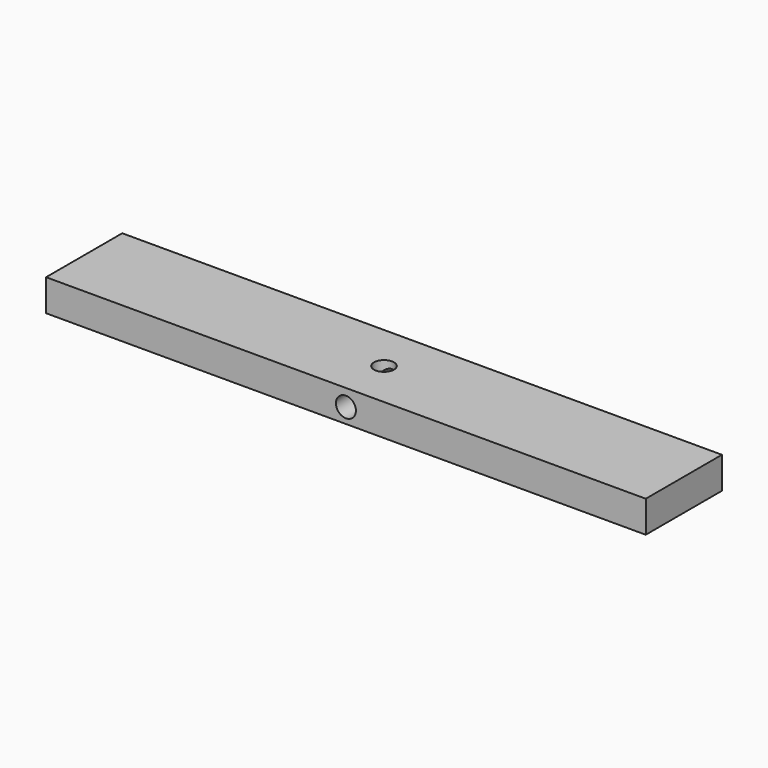
from build123d import *

# Parameters (mm, degrees)
F0_W     = 55
F0_H     = 19.05
F0_W_2   = 10
F0_R     = 2
F1_DEPTH = 6.35
F2_R     = 2
F3_DEPTH = 19.051


with BuildPart() as f1:
    # F0 (on Top) → F1 (new body)
    with BuildSketch(Plane.XY):
        with Locations((32.5, 0)):
            Rectangle(F0_W, F0_H)
        Rectangle(F0_W_2, F0_H)
        Circle(F0_R, mode=Mode.SUBTRACT)
        with Locations((-32.5, 0)):
            Rectangle(F0_W, F0_H)
    extrude(amount=F1_DEPTH)

    # F2 (on face) → F3 (cut, through all)
    with BuildSketch(Plane.XZ.offset(9.525)):
        with Locations((0, 3)):
            Circle(F2_R)
    extrude(amount=-F3_DEPTH, mode=Mode.SUBTRACT)


solid = f1.part
